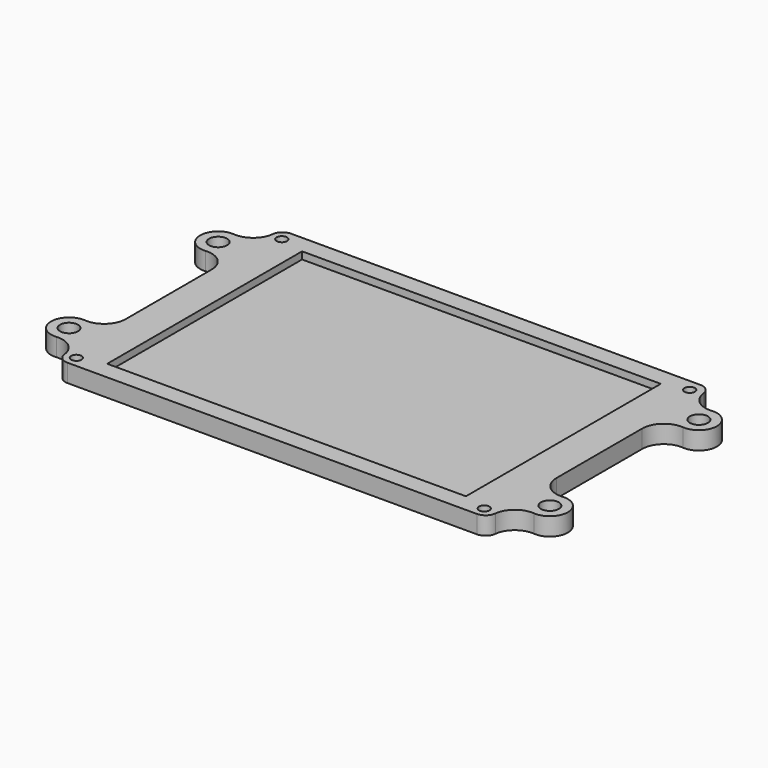
from build123d import *

# Parameters (mm, degrees)
SKETCH_W        = 119.87
SKETCH_H        = 77.81
SKETCH_R        = 1.45
PAD_DEPTH       = 5
SKETCH045_R     = 2.5
PAD032_DEPTH    = 5
SKETCH046_R     = 2.3
POCKET_DEPTH    = 3.5
SKETCH051_W     = 99.87
SKETCH051_H     = 67.81
POCKET012_DEPTH = 2
FILLET001_R     = 3


with BuildPart() as part:
    # Sketch → Pad (new body)
    with BuildSketch(Plane.XY):
        with Locations((56.935, -32.905)):
            Rectangle(SKETCH_W, SKETCH_H)
        with Locations((0, -68.81)):
            Circle(SKETCH_R, mode=Mode.SUBTRACT)
        with Locations((113.57, -68.81)):
            Circle(SKETCH_R, mode=Mode.SUBTRACT)
        with Locations((113.57, 2.7)):
            Circle(SKETCH_R, mode=Mode.SUBTRACT)
        with Locations((0, 2.7)):
            Circle(SKETCH_R, mode=Mode.SUBTRACT)
    extrude(amount=PAD_DEPTH)

    # Sketch045 (on Face9 of Pad) → Pad032 (join)
    with BuildSketch(Plane(origin=(0, 0, 0), x_dir=(1, 0, 0), z_dir=(0, 0, -1))):
        with BuildLine():
            ThreePointArc((-9.566038, 63.821132), (-15, 58.84), (-9.566038, 53.858868))
            ThreePointArc((-3, 47.84), (-4.959164, 52.29364), (-9.566038, 53.858868))
            Line((-3, 69.84), (-3, 47.84))
            ThreePointArc((-9.566038, 63.821132), (-4.959164, 65.38636), (-3, 69.84))
        make_face()
        with Locations((-10, 58.84)):
            Circle(SKETCH045_R, mode=Mode.SUBTRACT)
        with BuildLine():
            ThreePointArc((-9.566038, 11.951132), (-15, 6.97), (-9.566038, 1.988868))
            ThreePointArc((-3, -4.03), (-4.959164, 0.42364), (-9.566038, 1.988868))
            Line((-3, 17.97), (-3, -4.03))
            ThreePointArc((-9.566038, 11.951132), (-4.959164, 13.51636), (-3, 17.97))
        make_face()
        with Locations((-10, 6.97)):
            Circle(SKETCH045_R, mode=Mode.SUBTRACT)
        with BuildLine():
            ThreePointArc((123.436038, 1.988868), (128.87, 6.97), (123.436038, 11.951132))
            ThreePointArc((116.87, 17.97), (118.829164, 13.51636), (123.436038, 11.951132))
            Line((116.87, 17.97), (116.87, -4.03))
            ThreePointArc((123.436038, 1.988868), (118.829164, 0.42364), (116.87, -4.03))
        make_face()
        with Locations((123.87, 6.97)):
            Circle(SKETCH045_R, mode=Mode.SUBTRACT)
        with BuildLine():
            ThreePointArc((123.436038, 53.858868), (128.87, 58.84), (123.436038, 63.821132))
            ThreePointArc((116.87, 69.84), (118.829164, 65.38636), (123.436038, 63.821132))
            Line((116.87, 69.84), (116.87, 47.84))
            ThreePointArc((123.436038, 53.858868), (118.829164, 52.29364), (116.87, 47.84))
        make_face()
        with Locations((123.87, 58.84)):
            Circle(SKETCH045_R, mode=Mode.SUBTRACT)
    extrude(amount=-PAD032_DEPTH)

    # Sketch046 (on Face21 of Pad032) → Pocket (cut)
    with BuildSketch(Plane(origin=(0, 0, 0), x_dir=(1, 0, 0), z_dir=(0, 0, -1))):
        with Locations((0, -2.7)):
            Circle(SKETCH046_R)
        with Locations((113.57, -2.7)):
            Circle(SKETCH046_R)
        with Locations((113.57, 68.81)):
            Circle(SKETCH046_R)
        with Locations((0, 68.81)):
            Circle(SKETCH046_R)
    extrude(amount=-POCKET_DEPTH, mode=Mode.SUBTRACT)

    # Sketch051 (on Face4 of Pocket) → Pocket012 (cut)
    with BuildSketch(Plane.XY.offset(5)):
        with Locations((56.935, -32.905)):
            Rectangle(SKETCH051_W, SKETCH051_H)
    extrude(amount=-POCKET012_DEPTH, mode=Mode.SUBTRACT)

    # Fillet001
    fillet001_edges = [part.edges().sort_by_distance(p)[0] for p in [
        (116.87, -71.81, 2.5),
        (-3, -71.81, 2.5),
        (-3, 6, 2.5),
        (116.87, 6, 2.5),
    ]]
    fillet(fillet001_edges, radius=FILLET001_R)


with BuildPart() as part_1:
    # Body placement: moved
    add(part.part.moved(Location((0, 0, -12.73))))


solid = part_1.part
